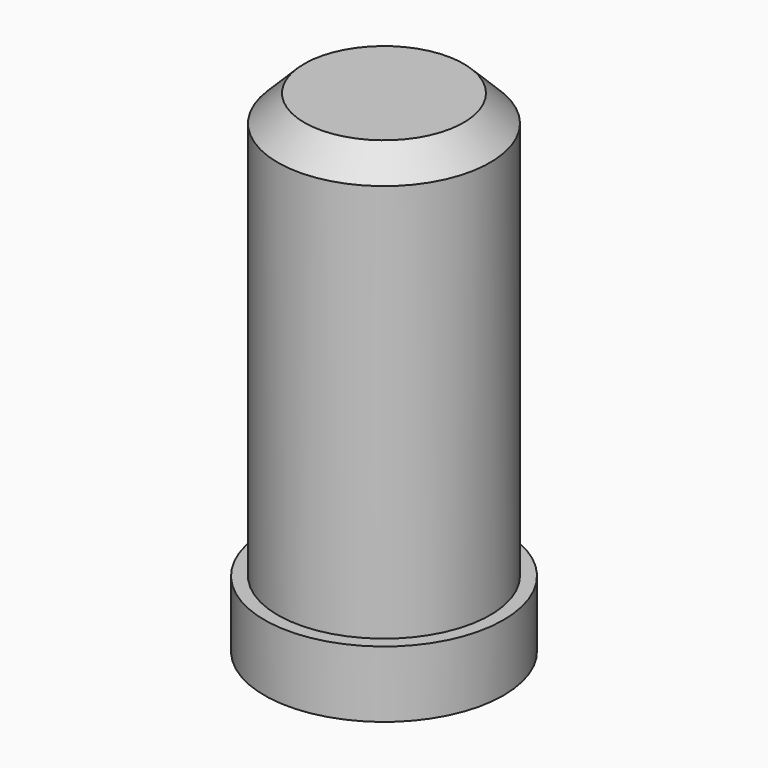
from build123d import *

# Parameters (mm, degrees)
F0_W = 6
F0_H = 22.5


with BuildPart() as f1:
    # F0 (on Front) → F1 (revolve)
    with BuildSketch(Plane.XZ):
        Polygon((0, 24), (-4.5, 24), (-6, 22.5), (0, 22.5), align=None)
        with Locations((-3, 11.25)):
            Rectangle(F0_W, F0_H)
        Polygon((0, 0), (-6, 0), (-6.75, 0), (-6.75, -3.75), (0, -3.75), align=None)
    revolve(axis=Axis((0, 0, 9.848651), (0, 0, -1)))


solid = f1.part
